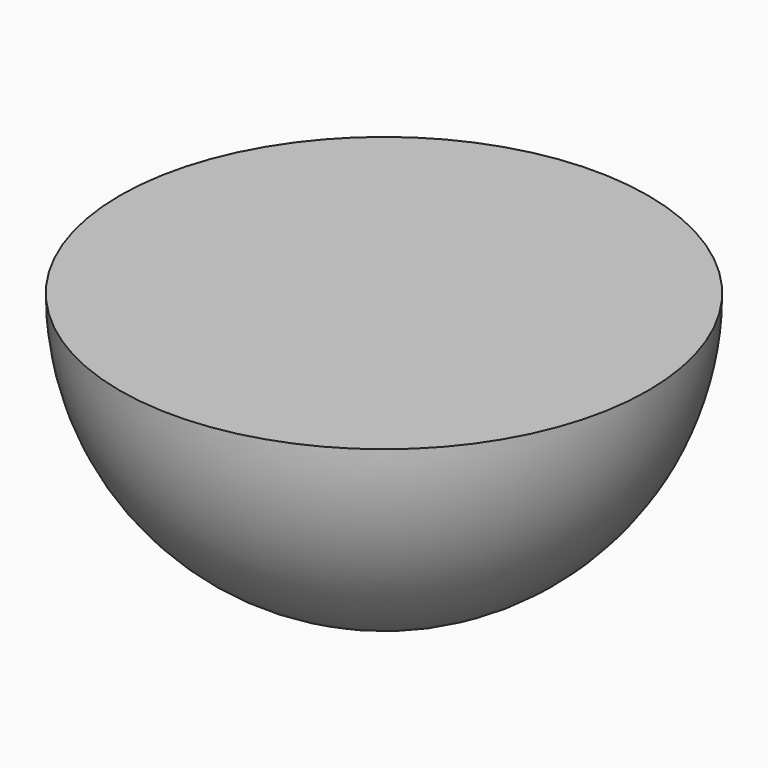
from build123d import *

# Parameters (mm, degrees)
F1_ANGLE = 180


with BuildPart() as f1:
    # F0 (on Top) → F1 (revolve)
    with BuildSketch(Plane.XY):
        with BuildLine():
            ThreePointArc((-1000, 0), (0, -1000), (1000, 0))
            Line((1000, 0), (-1000, 0))
        make_face()
    revolve(axis=Axis((0, 0, 0), (1, 0, 0)), revolution_arc=F1_ANGLE)


solid = f1.part
